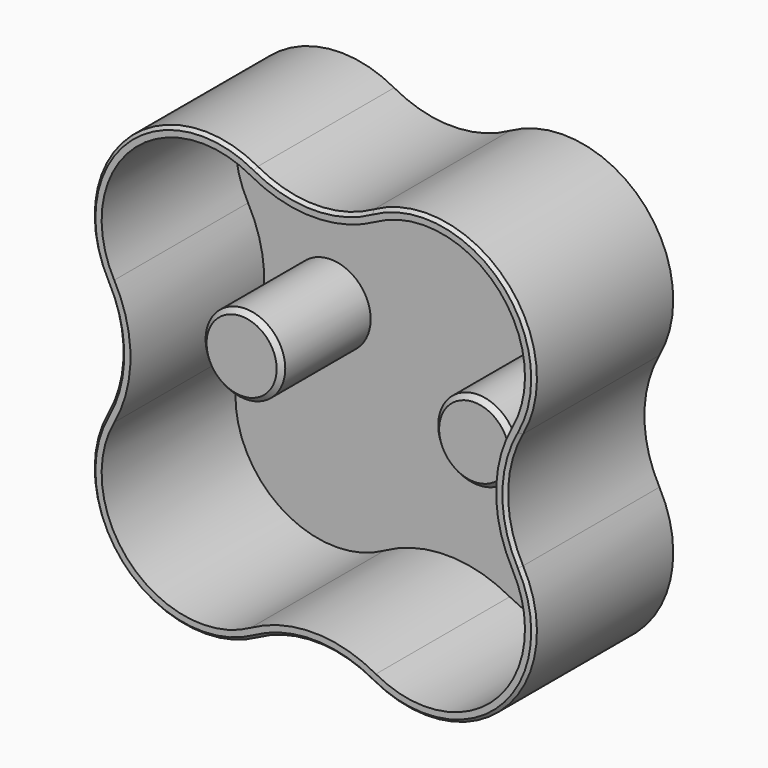
from build123d import *

# Parameters (mm, degrees)
F1_DEPTH = 1
F3_DEPTH = 26.67
F4_R     = 6.35
F5_DEPTH = 17.78
F6_SIZE  = 0.762
F7_SIZE  = 0.508


with BuildPart() as f1:
    # F0 (on Front) → F1 (new body)
    with BuildSketch(Plane.XZ):
        with BuildLine():
            ThreePointArc((-9.251368, 33.047819), (-30.124369, 30.124369), (-33.047819, 9.251368))
            ThreePointArc((-33.047819, 9.251368), (-30.650587, 0), (-33.047819, -9.251368))
            ThreePointArc((-33.047819, -9.251368), (-30.124369, -30.124369), (-9.251368, -33.047819))
            ThreePointArc((-9.251368, -33.047819), (0, -30.650587), (9.251368, -33.047819))
            ThreePointArc((9.251368, -33.047819), (30.124369, -30.124369), (33.047819, -9.251368))
            ThreePointArc((33.047819, -9.251368), (30.650587, 0), (33.047819, 9.251368))
            ThreePointArc((33.047819, 9.251368), (30.124369, 30.124369), (9.251368, 33.047819))
            ThreePointArc((9.251368, 33.047819), (0, 30.650587), (-9.251368, 33.047819))
        make_face()
    extrude(amount=F1_DEPTH)

    # F2 (on face) → F3 (join)
    with BuildSketch(Plane.XZ.offset(1)):
        with BuildLine():
            ThreePointArc((-9.251368, 33.047819), (-30.124369, 30.124369), (-33.047819, 9.251368))
            ThreePointArc((-33.047819, 9.251368), (-30.650587, 0), (-33.047819, -9.251368))
            ThreePointArc((-33.047819, -9.251368), (-30.124369, -30.124369), (-9.251368, -33.047819))
            ThreePointArc((-9.251368, -33.047819), (0, -30.650587), (9.251368, -33.047819))
            ThreePointArc((9.251368, -33.047819), (30.124369, -30.124369), (33.047819, -9.251368))
            ThreePointArc((33.047819, -9.251368), (30.650587, 0), (33.047819, 9.251368))
            ThreePointArc((33.047819, 9.251368), (30.124369, 30.124369), (9.251368, 33.047819))
            ThreePointArc((9.251368, 33.047819), (0, 30.650587), (-9.251368, 33.047819))
        make_face()
        with BuildLine():
            ThreePointArc((-9.979822, 31.736577), (0, 29.150587), (9.979822, 31.736577))
            ThreePointArc((9.979822, 31.736577), (29.063708, 29.063708), (31.736577, 9.979822))
            ThreePointArc((31.736577, 9.979822), (29.150587, 0), (31.736577, -9.979822))
            ThreePointArc((31.736577, -9.979822), (29.063708, -29.063708), (9.979822, -31.736577))
            ThreePointArc((9.979822, -31.736577), (0, -29.150587), (-9.979822, -31.736577))
            ThreePointArc((-9.979822, -31.736577), (-29.063708, -29.063708), (-31.736577, -9.979822))
            ThreePointArc((-31.736577, -9.979822), (-29.150587, 0), (-31.736577, 9.979822))
            ThreePointArc((-31.736577, 9.979822), (-29.063708, 29.063708), (-9.979822, 31.736577))
        make_face(mode=Mode.SUBTRACT)
    extrude(amount=F3_DEPTH)

    # F4 (on face) → F5 (join)
    with BuildSketch(Plane.XZ.offset(1)):
        with Locations((-18.542, 0)):
            Circle(F4_R)
        with Locations((18.542, 0)):
            Circle(F4_R)
    extrude(amount=F5_DEPTH)

    # F6
    f6_edges = [f1.edges().sort_by_distance(p)[0] for p in [
        (12.192, -18.78, 0),
        (-24.892, -18.78, 0),
    ]]
    chamfer(f6_edges, length=F6_SIZE)

    # F7
    f7_edges = [f1.edges().sort_by_distance(p)[0] for p in [
        (-30.124369, -27.67, 30.124369),
    ]]
    chamfer(f7_edges, length=F7_SIZE)


solid = f1.part
